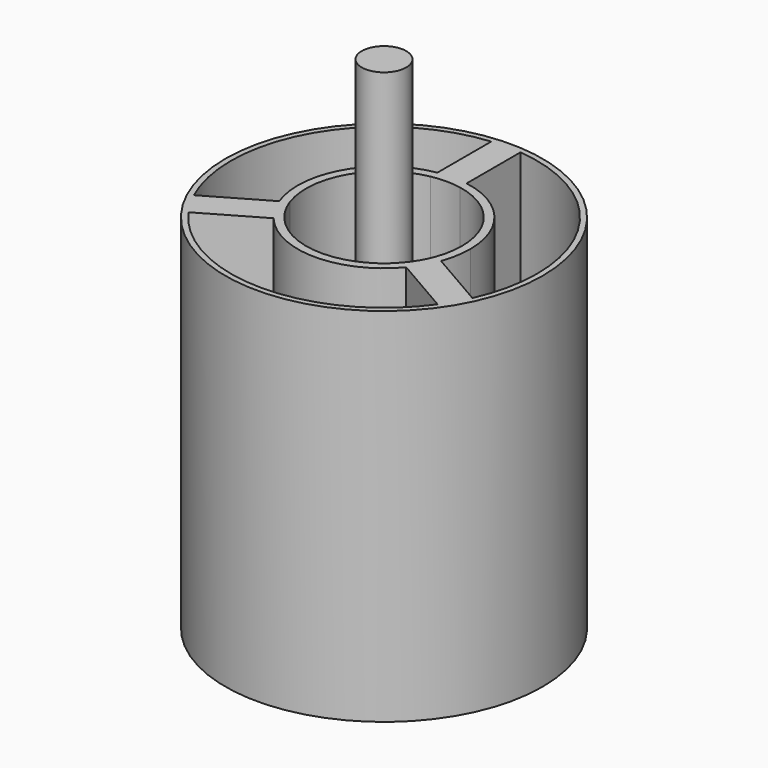
from build123d import *

# Parameters (mm, degrees)
F0_R     = 28.5
F1_DEPTH = 65
F0_R_2   = 4
F2_DEPTH = 90


with BuildPart() as f1:
    # F0 (on Top) → F1 (new body)
    with BuildSketch(Plane.XY):
        Circle(F0_R)
        with BuildLine():
            ThreePointArc((2.6210568156, 27.3748070526), (20.3510326818, 18.4955526759), (27.5, 0))
            ThreePointArc((27.5, 0), (26.8722876336, -5.8421021334), (25.0178067391, -11.4175017392))
            ThreePointArc((25.0178067391, -11.4175017392), (23.8156986041, -13.75), (22.3967499235, -15.9573053134))
            ThreePointArc((22.3967499235, -15.9573053134), (0, -27.5), (-22.3967499235, -15.9573053134))
            ThreePointArc((-22.3967499235, -15.9573053134), (-23.8156986041, -13.75), (-25.0178067391, -11.4175017392))
            ThreePointArc((-25.0178067391, -11.4175017392), (-23.8156986041, 13.75), (-2.6210568156, 27.3748070526))
            ThreePointArc((-2.6210568156, 27.3748070526), (0, 27.5), (2.6210568156, 27.3748070526))
        make_face(mode=Mode.SUBTRACT)
        with BuildLine():
            Line((2.6210568156, 15.2767817674), (2.6210568156, 27.3748070526))
            ThreePointArc((2.6210568156, 27.3748070526), (0, 27.5), (-2.6210568156, 27.3748070526))
            Line((-2.6210568156, 27.3748070526), (-2.6210568156, 15.2767817674))
            ThreePointArc((-2.6210568156, 15.2767817674), (0, 15.5), (2.6210568156, 15.2767817674))
        make_face()
        with BuildLine():
            Line((-14.5406095065, -5.3684890966), (-25.0178067391, -11.4175017392))
            ThreePointArc((-25.0178067391, -11.4175017392), (-23.8156986041, -13.75), (-22.3967499235, -15.9573053134))
            Line((-22.3967499235, -15.9573053134), (-11.9195526908, -9.9082926708))
            ThreePointArc((-11.9195526908, -9.9082926708), (-13.4233937587, -7.75), (-14.5406095065, -5.3684890966))
        make_face()
        with BuildLine():
            ThreePointArc((22.3967499235, -15.9573053134), (23.8156986041, -13.75), (25.0178067391, -11.4175017392))
            Line((25.0178067391, -11.4175017392), (14.5406095065, -5.3684890966))
            ThreePointArc((14.5406095065, -5.3684890966), (13.4233937587, -7.75), (11.9195526908, -9.9082926708))
            Line((11.9195526908, -9.9082926708), (22.3967499235, -15.9573053134))
        make_face()
        with BuildLine():
            Line((-2.6210568156, 13.7524565504), (-2.6210568156, 15.2767817674))
            ThreePointArc((-2.6210568156, 15.2767817674), (-13.4233937587, 7.75), (-14.5406095065, -5.3684890966))
            Line((-14.5406095065, -5.3684890966), (-13.2205051449, -4.6063264881))
            ThreePointArc((-13.2205051449, -4.6063264881), (-12.124355653, 7), (-2.6210568156, 13.7524565504))
        make_face()
        with BuildLine():
            ThreePointArc((15.5, 0), (11.8506620204, 9.9905860528), (2.6210568156, 15.2767817674))
            Line((2.6210568156, 15.2767817674), (2.6210568156, 13.7524565504))
            ThreePointArc((2.6210568156, 13.7524565504), (10.7864450914, 8.9248306589), (14, 0))
            ThreePointArc((14, 0), (13.8037507951, -2.3359075294), (13.2205051449, -4.6063264881))
            Line((13.2205051449, -4.6063264881), (14.5406095065, -5.3684890966))
            ThreePointArc((14.5406095065, -5.3684890966), (15.2582673877, -2.7267703103), (15.5, 0))
        make_face()
        with BuildLine():
            ThreePointArc((-11.9195526908, -9.9082926708), (0, -15.5), (11.9195526908, -9.9082926708))
            Line((11.9195526908, -9.9082926708), (10.5994483292, -9.1461300623))
            ThreePointArc((10.5994483292, -9.1461300623), (0, -14), (-10.5994483292, -9.1461300623))
            Line((-10.5994483292, -9.1461300623), (-11.9195526908, -9.9082926708))
        make_face()
        with BuildLine():
            Line((2.6210568156, 13.7524565504), (2.6210568156, 15.2767817674))
            ThreePointArc((2.6210568156, 15.2767817674), (0, 15.5), (-2.6210568156, 15.2767817674))
            Line((-2.6210568156, 15.2767817674), (-2.6210568156, 13.7524565504))
            ThreePointArc((-2.6210568156, 13.7524565504), (0, 14), (2.6210568156, 13.7524565504))
        make_face()
        with BuildLine():
            Line((-13.2205051449, -4.6063264881), (-14.5406095065, -5.3684890966))
            ThreePointArc((-14.5406095065, -5.3684890966), (-13.4233937587, -7.75), (-11.9195526908, -9.9082926708))
            Line((-11.9195526908, -9.9082926708), (-10.5994483292, -9.1461300623))
            ThreePointArc((-10.5994483292, -9.1461300623), (-12.124355653, -7), (-13.2205051449, -4.6063264881))
        make_face()
        with BuildLine():
            ThreePointArc((11.9195526908, -9.9082926708), (13.4233937587, -7.75), (14.5406095065, -5.3684890966))
            Line((14.5406095065, -5.3684890966), (13.2205051449, -4.6063264881))
            ThreePointArc((13.2205051449, -4.6063264881), (12.124355653, -7), (10.5994483292, -9.1461300623))
            Line((10.5994483292, -9.1461300623), (11.9195526908, -9.9082926708))
        make_face()
    extrude(amount=F1_DEPTH)


with BuildPart() as f2:
    # F0 (on Top) → F2 (new body)
    with BuildSketch(Plane.XY):
        Circle(F0_R_2)
    extrude(amount=F2_DEPTH)


solid = Compound([f1.part, f2.part])
